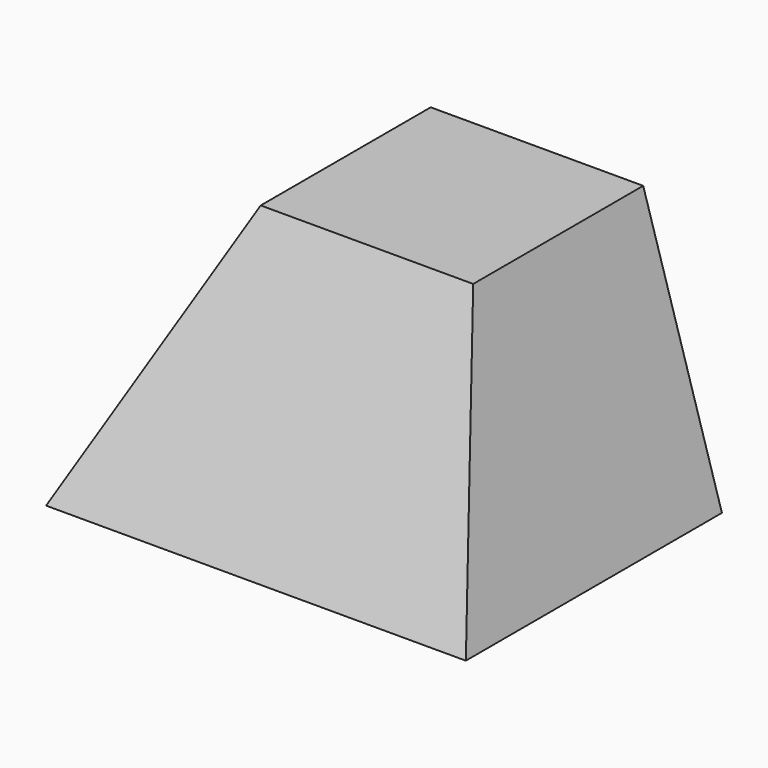
from build123d import *

# Parameters (mm, degrees)
F0_W     = 800
F0_H     = 610
F1_DEPTH = 250
F3_DEPTH = 610.001
F6_DEPTH = 800.001


with BuildPart() as f1:
    # F0 (on Top) → F1 (new body, symmetric)
    with BuildSketch(Plane.XY):
        Rectangle(F0_W, F0_H)
    extrude(amount=F1_DEPTH, both=True)

    # F2 (on face) → F3 (cut, through all)
    with BuildSketch(Plane.XZ.offset(305)):
        Polygon((-155, 250), (-400, 250), (-400, -250), align=None)
        Polygon((400, 250), (250, 250), (400, -250), align=None)
    extrude(amount=-F3_DEPTH, mode=Mode.SUBTRACT)

    # F5 (on offset) → F6 (cut, through all)
    with BuildSketch(Plane.YZ.offset(-400)):
        Polygon((-305, -250), (-100, 250), (-305, 250), align=None)
    extrude(amount=F6_DEPTH, mode=Mode.SUBTRACT)


solid = f1.part
